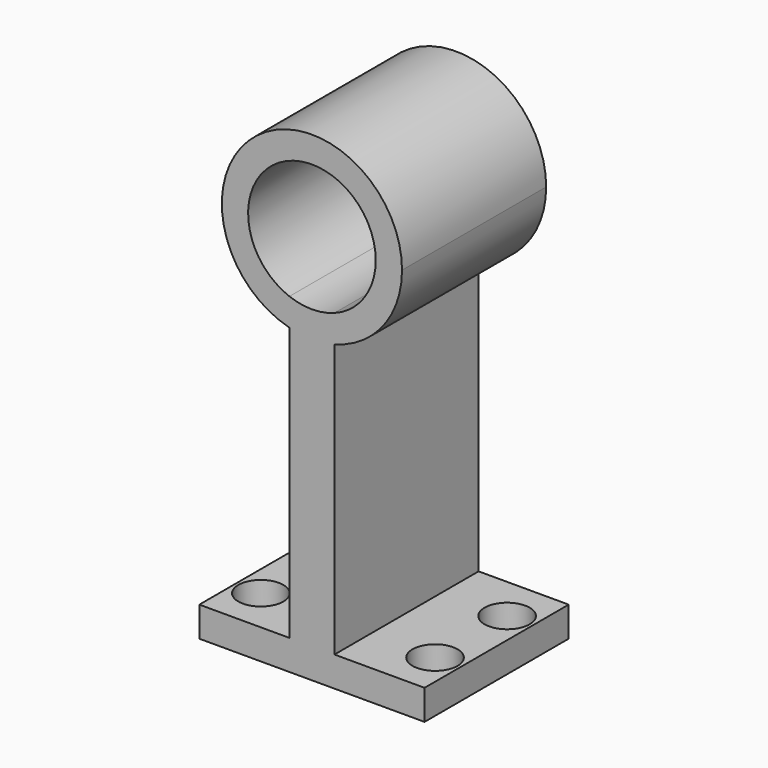
from build123d import *

# Parameters (mm, degrees)
F0_W     = 3
F0_H     = 1
F1_DEPTH = 12
F2_R     = 1.5
F3_DEPTH = 5


with BuildPart() as f1:
    # F0 (on Front) → F1 (new body)
    with BuildSketch(Plane.XZ):
        with BuildLine():
            ThreePointArc((-1.5, 21.0235065699), (-2.4173849507, 28.4955328635), (4.25, 25))
            ThreePointArc((4.25, 25), (3.4955328635, 22.5826150493), (1.5, 21.0235065699))
            Line((1.5, 21.0235065699), (1.5, 19.1905249807))
            ThreePointArc((1.5, 19.1905249807), (4.7434164903, 21.3257653858), (6, 25))
            ThreePointArc((6, 25), (-3.6742346142, 29.7434164903), (-1.5, 19.1905249807))
            Line((-1.5, 19.1905249807), (-1.5, 21.0235065699))
        make_face()
        with BuildLine():
            ThreePointArc((1.5, 21.0235065699), (0, 20.75), (-1.5, 21.0235065699))
            Line((-1.5, 21.0235065699), (-1.5, 19.1905249807))
            ThreePointArc((-1.5, 19.1905249807), (0, 19), (1.5, 19.1905249807))
            Line((1.5, 19.1905249807), (1.5, 21.0235065699))
        make_face()
        with BuildLine():
            ThreePointArc((1.5, 19.1905249807), (0, 19), (-1.5, 19.1905249807))
            Line((-1.5, 19.1905249807), (-1.5, 1))
            Line((-1.5, 1), (1.5, 1))
            Line((1.5, 1), (1.5, 19.1905249807))
        make_face()
        Polygon((-1.5, 0), (-1.5, 1), (-7.5, 1), (-7.5, -1), (7.5, -1), (7.5, 1), (1.5, 1), (1.5, 0), align=None)
        with Locations((0, 0.5)):
            Rectangle(F0_W, F0_H)
    extrude(amount=F1_DEPTH)

    # F2 (on face) → F3 (cut)
    with BuildSketch(Plane(origin=(0, 0, -1), x_dir=(1, 0, 0), z_dir=(0, 0, -1))):
        with Locations((-5.8, 9)):
            Circle(F2_R)
        with Locations((-5.8, 3)):
            Circle(F2_R)
        with Locations((5.8, 3)):
            Circle(F2_R)
        with Locations((5.8, 9)):
            Circle(F2_R)
    extrude(amount=-F3_DEPTH, mode=Mode.SUBTRACT)


solid = f1.part
